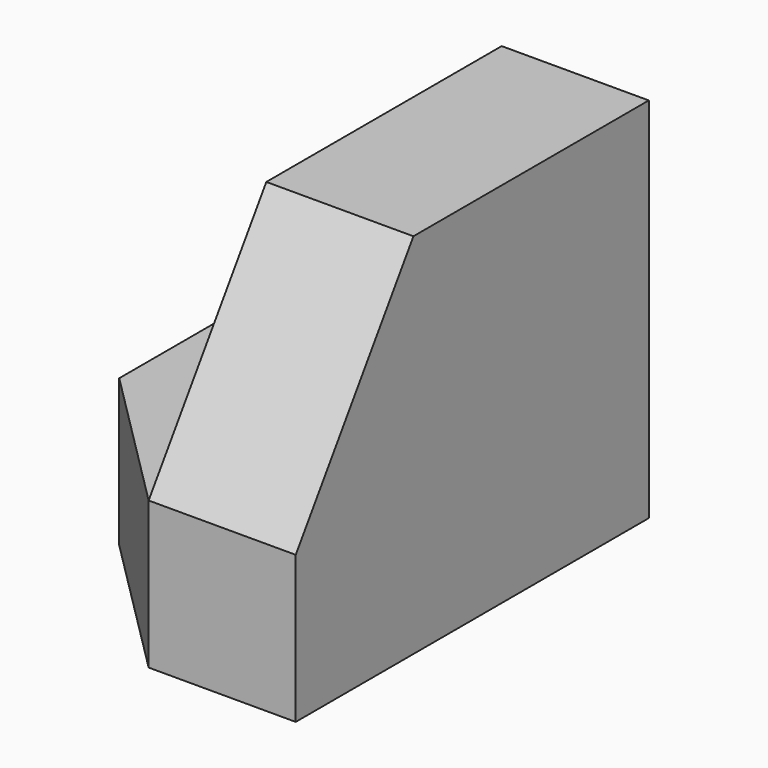
from build123d import *

# Parameters (mm, degrees)
F1_DEPTH = 38.1
F3_DEPTH = 12.7
F5_DEPTH = 25.4


with BuildPart() as f1:
    # F0 (on Front) → F1 (new body)
    with BuildSketch(Plane.XZ):
        Polygon((0, 12.7), (0, 0), (25.4, 0), (25.4, 31.75), (12.7, 31.75), (12.7, 12.7), align=None)
    extrude(amount=F1_DEPTH)

    # F2 (on face) → F3 (cut)
    with BuildSketch(Plane.XY.offset(12.7)):
        Polygon((12.7, -38.1), (0, -25.4), (0, -38.1), align=None)
    extrude(amount=-F3_DEPTH, mode=Mode.SUBTRACT)

    # F4 (on face) → F5 (cut)
    with BuildSketch(Plane(origin=(12.7, 0, 0), x_dir=(0, -1, 0), z_dir=(-1, 0, 0))):
        Polygon((38.1, 31.75), (25.4, 31.75), (38.1, 12.7), align=None)
    extrude(amount=-F5_DEPTH, mode=Mode.SUBTRACT)


solid = f1.part
